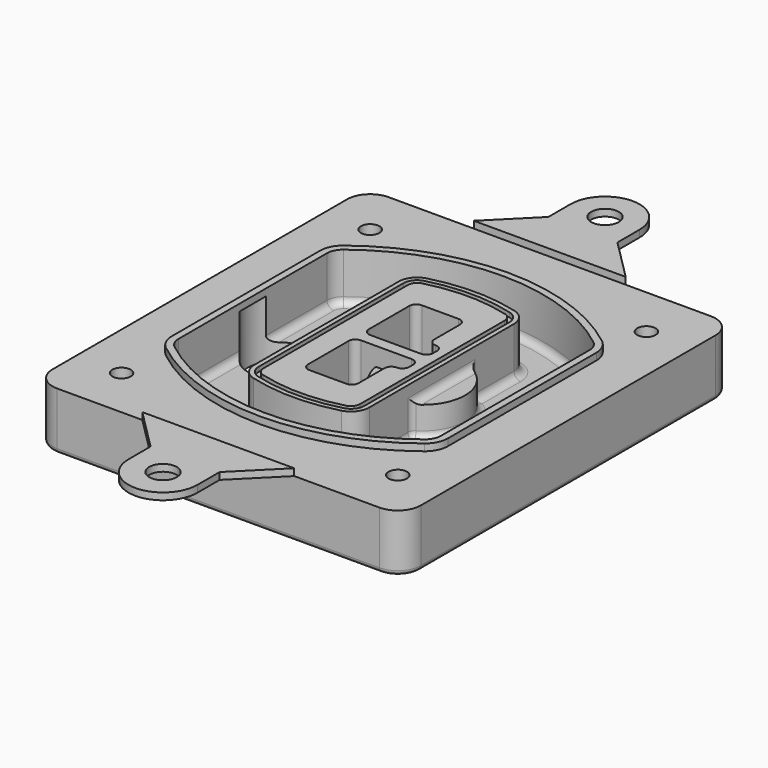
from build123d import *

# Parameters (mm, degrees)
F0_R      = 4
F1_DEPTH  = 25
F2_DEPTH  = 3
F3_DEPTH  = 18
F5_DEPTH  = 21
F6_DEPTH  = 2
F8_DEPTH  = 20
F9_DEPTH  = 16
F10_DEPTH = 25
F7_R      = 6
F7_R_2    = 4
F11_DEPTH = 6
F13_DEPTH = 9
F14_R     = 3
F15_R     = 2
F16_R     = 6
F17_DEPTH = 3


with BuildPart() as f1:
    # F0 (on Top) → F1 (new body)
    with BuildSketch(Plane.XY):
        with BuildLine():
            ThreePointArc((-80, -80), (-77.0710678119, -87.0710678119), (-70, -90))
            Line((-70, -90), (70, -90))
            ThreePointArc((70, -90), (77.0710678119, -87.0710678119), (80, -80))
            Line((80, -80), (80, 80))
            ThreePointArc((80, 80), (77.0710678119, 87.0710678119), (70, 90))
            Line((70, 90), (-70, 90))
            ThreePointArc((-70, 90), (-77.0710678119, 87.0710678119), (-80, 80))
            Line((-80, 80), (-80, -80))
        make_face()
        with Locations((-60, -67.5)):
            Circle(F0_R, mode=Mode.SUBTRACT)
        with Locations((60, -67.5)):
            Circle(F0_R, mode=Mode.SUBTRACT)
        with Locations((-60, 67.5)):
            Circle(F0_R, mode=Mode.SUBTRACT)
        with BuildLine():
            ThreePointArc((-64, 40.2934422872), (-62.5820384798, 46.4328484224), (-58.6153846154, 51.3286200352))
            ThreePointArc((-58.6153846154, 51.3286200352), (0, 71.5), (58.6153846154, 51.3286200352))
            ThreePointArc((58.6153846154, 51.3286200352), (62.5820384798, 46.4328484224), (64, 40.2934422872))
            Line((64, 40.2934422872), (64, -40.2934422872))
            ThreePointArc((64, -40.2934422872), (62.5820384798, -46.4328484224), (58.6153846154, -51.3286200352))
            ThreePointArc((58.6153846154, -51.3286200352), (0, -71.5), (-58.6153846154, -51.3286200352))
            ThreePointArc((-58.6153846154, -51.3286200352), (-62.5820384798, -46.4328484224), (-64, -40.2934422872))
            Line((-64, -40.2934422872), (-64, 40.2934422872))
        make_face(mode=Mode.SUBTRACT)
        with Locations((60, 67.5)):
            Circle(F0_R, mode=Mode.SUBTRACT)
        with BuildLine():
            ThreePointArc((58.6153846154, 51.3286200352), (0, 71.5), (-58.6153846154, 51.3286200352))
            ThreePointArc((-58.6153846154, 51.3286200352), (-62.5820384798, 46.4328484224), (-64, 40.2934422872))
            Line((-64, 40.2934422872), (-64, -40.2934422872))
            ThreePointArc((-64, -40.2934422872), (-62.5820384798, -46.4328484224), (-58.6153846154, -51.3286200352))
            ThreePointArc((-58.6153846154, -51.3286200352), (0, -71.5), (58.6153846154, -51.3286200352))
            ThreePointArc((58.6153846154, -51.3286200352), (62.5820384798, -46.4328484224), (64, -40.2934422872))
            Line((64, -40.2934422872), (64, 40.2934422872))
            ThreePointArc((64, 40.2934422872), (62.5820384798, 46.4328484224), (58.6153846154, 51.3286200352))
        make_face()
        with BuildLine():
            Line((-60, -40.2934422872), (-60, 40.2934422872))
            ThreePointArc((-60, 40.2934422872), (-58.9871703427, 44.6787323838), (-56.1538461538, 48.1757121072))
            ThreePointArc((-56.1538461538, 48.1757121072), (0, 67.5), (56.1538461538, 48.1757121072))
            ThreePointArc((56.1538461538, 48.1757121072), (58.9871703427, 44.6787323838), (60, 40.2934422872))
            Line((60, 40.2934422872), (60, -40.2934422872))
            ThreePointArc((60, -40.2934422872), (58.9871703427, -44.6787323838), (56.1538461538, -48.1757121072))
            ThreePointArc((56.1538461538, -48.1757121072), (0, -67.5), (-56.1538461538, -48.1757121072))
            ThreePointArc((-56.1538461538, -48.1757121072), (-58.9871703427, -44.6787323838), (-60, -40.2934422872))
        make_face(mode=Mode.SUBTRACT)
        with BuildLine():
            ThreePointArc((-56.1538461538, 48.1757121072), (-58.9871703427, 44.6787323838), (-60, 40.2934422872))
            Line((-60, 40.2934422872), (-60, -40.2934422872))
            ThreePointArc((-60, -40.2934422872), (-58.9871703427, -44.6787323838), (-56.1538461538, -48.1757121072))
            ThreePointArc((-56.1538461538, -48.1757121072), (0, -67.5), (56.1538461538, -48.1757121072))
            ThreePointArc((56.1538461538, -48.1757121072), (58.9871703427, -44.6787323838), (60, -40.2934422872))
            Line((60, -40.2934422872), (60, 40.2934422872))
            ThreePointArc((60, 40.2934422872), (58.9871703427, 44.6787323838), (56.1538461538, 48.1757121072))
            ThreePointArc((56.1538461538, 48.1757121072), (0, 67.5), (-56.1538461538, 48.1757121072))
        make_face()
        with BuildLine():
            ThreePointArc((54.3076923077, 45.8110311612), (56.2910192399, 43.3631453548), (57, 40.2934422872))
            Line((57, 40.2934422872), (57, -40.2934422872))
            ThreePointArc((57, -40.2934422872), (56.2910192399, -43.3631453548), (54.3076923077, -45.8110311612))
            ThreePointArc((54.3076923077, -45.8110311612), (0, -64.5), (-54.3076923077, -45.8110311612))
            ThreePointArc((-54.3076923077, -45.8110311612), (-56.2910192399, -43.3631453548), (-57, -40.2934422872))
            Line((-57, -40.2934422872), (-57, 40.2934422872))
            ThreePointArc((-57, 40.2934422872), (-56.2910192399, 43.3631453548), (-54.3076923077, 45.8110311612))
            ThreePointArc((-54.3076923077, 45.8110311612), (0, 64.5), (54.3076923077, 45.8110311612))
        make_face(mode=Mode.SUBTRACT)
        with BuildLine():
            Line((57, -40.2934422872), (57, 40.2934422872))
            ThreePointArc((57, 40.2934422872), (56.2910192399, 43.3631453548), (54.3076923077, 45.8110311612))
            ThreePointArc((54.3076923077, 45.8110311612), (0, 64.5), (-54.3076923077, 45.8110311612))
            ThreePointArc((-54.3076923077, 45.8110311612), (-56.2910192399, 43.3631453548), (-57, 40.2934422872))
            Line((-57, 40.2934422872), (-57, -40.2934422872))
            ThreePointArc((-57, -40.2934422872), (-56.2910192399, -43.3631453548), (-54.3076923077, -45.8110311612))
            ThreePointArc((-54.3076923077, -45.8110311612), (0, -64.5), (54.3076923077, -45.8110311612))
            ThreePointArc((54.3076923077, -45.8110311612), (56.2910192399, -43.3631453548), (57, -40.2934422872))
        make_face()
    extrude(amount=-F1_DEPTH)

    # F0 (on Top) → F2 (join)
    with BuildSketch(Plane.XY):
        with BuildLine():
            ThreePointArc((-56.1538461538, 48.1757121072), (-58.9871703427, 44.6787323838), (-60, 40.2934422872))
            Line((-60, 40.2934422872), (-60, -40.2934422872))
            ThreePointArc((-60, -40.2934422872), (-58.9871703427, -44.6787323838), (-56.1538461538, -48.1757121072))
            ThreePointArc((-56.1538461538, -48.1757121072), (0, -67.5), (56.1538461538, -48.1757121072))
            ThreePointArc((56.1538461538, -48.1757121072), (58.9871703427, -44.6787323838), (60, -40.2934422872))
            Line((60, -40.2934422872), (60, 40.2934422872))
            ThreePointArc((60, 40.2934422872), (58.9871703427, 44.6787323838), (56.1538461538, 48.1757121072))
            ThreePointArc((56.1538461538, 48.1757121072), (0, 67.5), (-56.1538461538, 48.1757121072))
        make_face()
        with BuildLine():
            ThreePointArc((54.3076923077, 45.8110311612), (56.2910192399, 43.3631453548), (57, 40.2934422872))
            Line((57, 40.2934422872), (57, -40.2934422872))
            ThreePointArc((57, -40.2934422872), (56.2910192399, -43.3631453548), (54.3076923077, -45.8110311612))
            ThreePointArc((54.3076923077, -45.8110311612), (0, -64.5), (-54.3076923077, -45.8110311612))
            ThreePointArc((-54.3076923077, -45.8110311612), (-56.2910192399, -43.3631453548), (-57, -40.2934422872))
            Line((-57, -40.2934422872), (-57, 40.2934422872))
            ThreePointArc((-57, 40.2934422872), (-56.2910192399, 43.3631453548), (-54.3076923077, 45.8110311612))
            ThreePointArc((-54.3076923077, 45.8110311612), (0, 64.5), (54.3076923077, 45.8110311612))
        make_face(mode=Mode.SUBTRACT)
    extrude(amount=F2_DEPTH)

    # F0 (on Top) → F3 (cut)
    with BuildSketch(Plane.XY):
        with BuildLine():
            Line((57, -40.2934422872), (57, 40.2934422872))
            ThreePointArc((57, 40.2934422872), (56.2910192399, 43.3631453548), (54.3076923077, 45.8110311612))
            ThreePointArc((54.3076923077, 45.8110311612), (0, 64.5), (-54.3076923077, 45.8110311612))
            ThreePointArc((-54.3076923077, 45.8110311612), (-56.2910192399, 43.3631453548), (-57, 40.2934422872))
            Line((-57, 40.2934422872), (-57, -40.2934422872))
            ThreePointArc((-57, -40.2934422872), (-56.2910192399, -43.3631453548), (-54.3076923077, -45.8110311612))
            ThreePointArc((-54.3076923077, -45.8110311612), (0, -64.5), (54.3076923077, -45.8110311612))
            ThreePointArc((54.3076923077, -45.8110311612), (56.2910192399, -43.3631453548), (57, -40.2934422872))
        make_face()
    extrude(amount=-F3_DEPTH, mode=Mode.SUBTRACT)

    # F4 (on face) → F5 (join, through all)
    with BuildSketch(Plane.XY.offset(3)):
        with BuildLine():
            ThreePointArc((-25, -39.2465276821), (-23.3511545998, -44.1109737193), (-19.0842911877, -46.9702398883))
            ThreePointArc((-19.0842911877, -46.9702398883), (0, -49.5), (19.0842911877, -46.9702398883))
            ThreePointArc((19.0842911877, -46.9702398883), (23.3511545998, -44.1109737193), (25, -39.2465276821))
            Line((25, -39.2465276821), (25, 39.2465276821))
            ThreePointArc((25, 39.2465276821), (23.3511545998, 44.1109737193), (19.0842911877, 46.9702398883))
            ThreePointArc((19.0842911877, 46.9702398883), (0, 49.5), (-19.0842911877, 46.9702398883))
            ThreePointArc((-19.0842911877, 46.9702398883), (-23.3511545998, 44.1109737193), (-25, 39.2465276821))
            Line((-25, 39.2465276821), (-25, -39.2465276821))
        make_face()
        with BuildLine():
            ThreePointArc((18.5632183908, 45.0393118368), (21.7633659499, 42.89486221), (23, 39.2465276821))
            Line((23, 39.2465276821), (23, -39.2465276821))
            ThreePointArc((23, -39.2465276821), (21.7633659499, -42.89486221), (18.5632183908, -45.0393118368))
            ThreePointArc((18.5632183908, -45.0393118368), (0, -47.5), (-18.5632183908, -45.0393118368))
            ThreePointArc((-18.5632183908, -45.0393118368), (-21.7633659499, -42.89486221), (-23, -39.2465276821))
            Line((-23, -39.2465276821), (-23, 39.2465276821))
            ThreePointArc((-23, 39.2465276821), (-21.7633659499, 42.89486221), (-18.5632183908, 45.0393118368))
            ThreePointArc((-18.5632183908, 45.0393118368), (0, 47.5), (18.5632183908, 45.0393118368))
        make_face(mode=Mode.SUBTRACT)
        with BuildLine():
            Line((23, -39.2465276821), (23, 39.2465276821))
            ThreePointArc((23, 39.2465276821), (21.7633659499, 42.89486221), (18.5632183908, 45.0393118368))
            ThreePointArc((18.5632183908, 45.0393118368), (0, 47.5), (-18.5632183908, 45.0393118368))
            ThreePointArc((-18.5632183908, 45.0393118368), (-21.7633659499, 42.89486221), (-23, 39.2465276821))
            Line((-23, 39.2465276821), (-23, -39.2465276821))
            ThreePointArc((-23, -39.2465276821), (-21.7633659499, -42.89486221), (-18.5632183908, -45.0393118368))
            ThreePointArc((-18.5632183908, -45.0393118368), (0, -47.5), (18.5632183908, -45.0393118368))
            ThreePointArc((18.5632183908, -45.0393118368), (21.7633659499, -42.89486221), (23, -39.2465276821))
        make_face()
        with BuildLine():
            ThreePointArc((18.0421455939, 43.1083837852), (20.1755772999, 41.6787507007), (21, 39.2465276821))
            Line((21, 39.2465276821), (21, -39.2465276821))
            ThreePointArc((21, -39.2465276821), (20.1755772999, -41.6787507007), (18.0421455939, -43.1083837852))
            ThreePointArc((18.0421455939, -43.1083837852), (0, -45.5), (-18.0421455939, -43.1083837852))
            ThreePointArc((-18.0421455939, -43.1083837852), (-20.1755772999, -41.6787507007), (-21, -39.2465276821))
            Line((-21, -39.2465276821), (-21, 39.2465276821))
            ThreePointArc((-21, 39.2465276821), (-20.1755772999, 41.6787507007), (-18.0421455939, 43.1083837852))
            ThreePointArc((-18.0421455939, 43.1083837852), (0, 45.5), (18.0421455939, 43.1083837852))
        make_face(mode=Mode.SUBTRACT)
        with BuildLine():
            Line((21, -39.2465276821), (21, 39.2465276821))
            ThreePointArc((21, 39.2465276821), (20.1755772999, 41.6787507007), (18.0421455939, 43.1083837852))
            ThreePointArc((18.0421455939, 43.1083837852), (0, 45.5), (-18.0421455939, 43.1083837852))
            ThreePointArc((-18.0421455939, 43.1083837852), (-20.1755772999, 41.6787507007), (-21, 39.2465276821))
            Line((-21, 39.2465276821), (-21, -39.2465276821))
            ThreePointArc((-21, -39.2465276821), (-20.1755772999, -41.6787507007), (-18.0421455939, -43.1083837852))
            ThreePointArc((-18.0421455939, -43.1083837852), (0, -45.5), (18.0421455939, -43.1083837852))
            ThreePointArc((18.0421455939, -43.1083837852), (20.1755772999, -41.6787507007), (21, -39.2465276821))
        make_face()
        with BuildLine():
            Line((-8, -2.5), (14, -2.5))
            ThreePointArc((14, -2.5), (16.1213203436, -3.3786796564), (17, -5.5))
            Line((17, -5.5), (17, -7.5))
            ThreePointArc((17, -7.5), (16.1213203436, -9.6213203436), (14, -10.5))
            ThreePointArc((14, -10.5), (11.8786796564, -11.3786796564), (11, -13.5))
            Line((11, -13.5), (11, -27.5))
            ThreePointArc((11, -27.5), (10.1213203436, -29.6213203436), (8, -30.5))
            Line((8, -30.5), (-8, -30.5))
            ThreePointArc((-8, -30.5), (-10.1213203436, -29.6213203436), (-11, -27.5))
            Line((-11, -27.5), (-11, -5.5))
            ThreePointArc((-11, -5.5), (-10.1213203436, -3.3786796564), (-8, -2.5))
        make_face(mode=Mode.SUBTRACT)
        with BuildLine():
            ThreePointArc((-8, 2.5), (-10.1213203436, 3.3786796564), (-11, 5.5))
            Line((-11, 5.5), (-11, 27.5))
            ThreePointArc((-11, 27.5), (-10.1213203436, 29.6213203436), (-8, 30.5))
            Line((-8, 30.5), (8, 30.5))
            ThreePointArc((8, 30.5), (10.1213203436, 29.6213203436), (11, 27.5))
            Line((11, 27.5), (11, 13.5))
            ThreePointArc((11, 13.5), (11.8786796564, 11.3786796564), (14, 10.5))
            ThreePointArc((14, 10.5), (16.1213203436, 9.6213203436), (17, 7.5))
            Line((17, 7.5), (17, 5.5))
            ThreePointArc((17, 5.5), (16.1213203436, 3.3786796564), (14, 2.5))
            Line((14, 2.5), (-8, 2.5))
        make_face(mode=Mode.SUBTRACT)
    extrude(amount=-F5_DEPTH)

    # F4 (on face) → F6 (cut)
    with BuildSketch(Plane.XY.offset(3)):
        with BuildLine():
            Line((23, -39.2465276821), (23, 39.2465276821))
            ThreePointArc((23, 39.2465276821), (21.7633659499, 42.89486221), (18.5632183908, 45.0393118368))
            ThreePointArc((18.5632183908, 45.0393118368), (0, 47.5), (-18.5632183908, 45.0393118368))
            ThreePointArc((-18.5632183908, 45.0393118368), (-21.7633659499, 42.89486221), (-23, 39.2465276821))
            Line((-23, 39.2465276821), (-23, -39.2465276821))
            ThreePointArc((-23, -39.2465276821), (-21.7633659499, -42.89486221), (-18.5632183908, -45.0393118368))
            ThreePointArc((-18.5632183908, -45.0393118368), (0, -47.5), (18.5632183908, -45.0393118368))
            ThreePointArc((18.5632183908, -45.0393118368), (21.7633659499, -42.89486221), (23, -39.2465276821))
        make_face()
        with BuildLine():
            ThreePointArc((18.0421455939, 43.1083837852), (20.1755772999, 41.6787507007), (21, 39.2465276821))
            Line((21, 39.2465276821), (21, -39.2465276821))
            ThreePointArc((21, -39.2465276821), (20.1755772999, -41.6787507007), (18.0421455939, -43.1083837852))
            ThreePointArc((18.0421455939, -43.1083837852), (0, -45.5), (-18.0421455939, -43.1083837852))
            ThreePointArc((-18.0421455939, -43.1083837852), (-20.1755772999, -41.6787507007), (-21, -39.2465276821))
            Line((-21, -39.2465276821), (-21, 39.2465276821))
            ThreePointArc((-21, 39.2465276821), (-20.1755772999, 41.6787507007), (-18.0421455939, 43.1083837852))
            ThreePointArc((-18.0421455939, 43.1083837852), (0, 45.5), (18.0421455939, 43.1083837852))
        make_face(mode=Mode.SUBTRACT)
    extrude(amount=-F6_DEPTH, mode=Mode.SUBTRACT)

    # F7 (on face) → F8 (join)
    with BuildSketch(Plane(origin=(0, 0, -25), x_dir=(1, 0, 0), z_dir=(0, 0, -1))):
        with BuildLine():
            ThreePointArc((3.28842436, 0), (16.7567035675, 13.4682792075), (30.224982775, 0))
            Line((30.224982775, 0), (35.224982775, 0))
            ThreePointArc((35.224982775, 0), (16.7567035675, 18.4682792075), (-1.71157564, 0))
            Line((-1.71157564, 0), (3.28842436, 0))
        make_face()
        with BuildLine():
            Line((3.28842436, 0), (30.224982775, 0))
            ThreePointArc((30.224982775, 0), (16.7567035675, 13.4682792075), (3.28842436, 0))
        make_face()
        with BuildLine():
            ThreePointArc((3.28842436, 0), (16.7567035675, -13.4682792075), (30.224982775, 0))
            Line((30.224982775, 0), (3.28842436, 0))
        make_face()
        with BuildLine():
            Line((35.224982775, 0), (30.224982775, 0))
            ThreePointArc((30.224982775, 0), (16.7567035675, -13.4682792075), (3.28842436, 0))
            Line((3.28842436, 0), (-1.71157564, 0))
            ThreePointArc((-1.71157564, 0), (16.7567035675, -18.4682792075), (35.224982775, 0))
        make_face()
    extrude(amount=-F8_DEPTH)

    # F7 (on face) → F9 (cut)
    with BuildSketch(Plane(origin=(0, 0, -25), x_dir=(1, 0, 0), z_dir=(0, 0, -1))):
        with BuildLine():
            Line((3.28842436, 0), (30.224982775, 0))
            ThreePointArc((30.224982775, 0), (16.7567035675, 13.4682792075), (3.28842436, 0))
        make_face()
        with BuildLine():
            ThreePointArc((3.28842436, 0), (16.7567035675, -13.4682792075), (30.224982775, 0))
            Line((30.224982775, 0), (3.28842436, 0))
        make_face()
    extrude(amount=-F9_DEPTH, mode=Mode.SUBTRACT)

    # F7 (on face) → F10 (cut)
    with BuildSketch(Plane(origin=(0, 0, -25), x_dir=(1, 0, 0), z_dir=(0, 0, -1))):
        with BuildLine():
            Line((-59.0318229325, 0), (-32.0952645175, 0))
            ThreePointArc((-32.0952645175, 0), (-45.563543725, 13.4682792075), (-59.0318229325, 0))
        make_face()
        with BuildLine():
            ThreePointArc((-59.0318229325, 0), (-45.563543725, -13.4682792075), (-32.0952645175, 0))
            Line((-32.0952645175, 0), (-59.0318229325, 0))
        make_face()
    extrude(amount=-F10_DEPTH, mode=Mode.SUBTRACT)

    # F7 (on face) → F11 (cut)
    with BuildSketch(Plane(origin=(0, 0, -25), x_dir=(1, 0, 0), z_dir=(0, 0, -1))):
        with Locations((60, -67.5)):
            Circle(F7_R)
        with Locations((60, -67.5)):
            Circle(F7_R_2, mode=Mode.SUBTRACT)
        with Locations((60, -67.5)):
            Circle(F7_R)
        with Locations((60, -67.5)):
            Circle(F7_R_2, mode=Mode.SUBTRACT)
        with Locations((-60, -67.5)):
            Circle(F7_R)
        with Locations((-60, -67.5)):
            Circle(F7_R_2, mode=Mode.SUBTRACT)
        with Locations((-60, -67.5)):
            Circle(F7_R)
        with Locations((-60, -67.5)):
            Circle(F7_R_2, mode=Mode.SUBTRACT)
        with Locations((-60, 67.5)):
            Circle(F7_R)
        with Locations((-60, 67.5)):
            Circle(F7_R_2, mode=Mode.SUBTRACT)
        with Locations((-60, 67.5)):
            Circle(F7_R)
        with Locations((-60, 67.5)):
            Circle(F7_R_2, mode=Mode.SUBTRACT)
        with Locations((60, 67.5)):
            Circle(F7_R)
        with Locations((60, 67.5)):
            Circle(F7_R_2, mode=Mode.SUBTRACT)
        with Locations((60, 67.5)):
            Circle(F7_R)
        with Locations((60, 67.5)):
            Circle(F7_R_2, mode=Mode.SUBTRACT)
    extrude(amount=-F11_DEPTH, mode=Mode.SUBTRACT)

    # F12 (on face) → F13 (cut, through all)
    with BuildSketch(Plane(origin=(0, 0, -9), x_dir=(1, 0, 0), z_dir=(0, 0, -1))):
        with BuildLine():
            Line((11, 13.5), (11, 17.5481537753))
            ThreePointArc((11, 17.5481537753), (2.5696536419, 11.8239143813), (-1.5415842455, 2.5))
            Line((-1.5415842455, 2.5), (3.5224848595, 2.5))
            ThreePointArc((3.5224848595, 2.5), (6.1857188154, 8.3455872281), (11.2536447004, 12.2927168648))
            ThreePointArc((11.2536447004, 12.2927168648), (11.0640958889, 12.8831798879), (11, 13.5))
        make_face()
        with BuildLine():
            ThreePointArc((11.2536447004, -12.2927168648), (6.1857188154, -8.3455872281), (3.5224848595, -2.5))
            Line((3.5224848595, -2.5), (-1.5415842455, -2.5))
            ThreePointArc((-1.5415842455, -2.5), (2.5696536419, -11.8239143813), (11, -17.5481537753))
            Line((11, -17.5481537753), (11, -13.5))
            ThreePointArc((11, -13.5), (11.0640958889, -12.8831798879), (11.2536447004, -12.2927168648))
        make_face()
        with BuildLine():
            ThreePointArc((11.2536447004, 12.2927168648), (6.1857188154, 8.3455872281), (3.5224848595, 2.5))
            Line((3.5224848595, 2.5), (14, 2.5))
            ThreePointArc((14, 2.5), (16.1213203436, 3.3786796564), (17, 5.5))
            Line((17, 5.5), (17, 7.5))
            ThreePointArc((17, 7.5), (16.1213203436, 9.6213203436), (14, 10.5))
            ThreePointArc((14, 10.5), (12.3601599782, 10.9878446101), (11.2536447004, 12.2927168648))
        make_face()
        with BuildLine():
            Line((14, -2.5), (3.5224848595, -2.5))
            ThreePointArc((3.5224848595, -2.5), (6.1857188154, -8.3455872281), (11.2536447004, -12.2927168648))
            ThreePointArc((11.2536447004, -12.2927168648), (12.3601599782, -10.9878446101), (14, -10.5))
            ThreePointArc((14, -10.5), (16.1213203436, -9.6213203436), (17, -7.5))
            Line((17, -7.5), (17, -5.5))
            ThreePointArc((17, -5.5), (16.1213203436, -3.3786796564), (14, -2.5))
        make_face()
    extrude(amount=F13_DEPTH, mode=Mode.SUBTRACT)

    # F14
    f14_edges = [f1.edges().sort_by_distance(p)[0] for p in [
        (-57, -23.703476, -18),
        (-57, 23.703476, -18),
        (25, 0, -5),
        (25, 16.526506, -11.5),
        (25, -16.526506, -11.5),
        (25, -27.886517, -18),
        (35.224983, 0, -18),
    ]]
    fillet(f14_edges, radius=F14_R)

    # F15
    f15_edges = [f1.edges().sort_by_distance(p)[0] for p in [
        (0, -90, -25),
    ]]
    fillet(f15_edges, radius=F15_R)


with BuildPart() as f17:
    # F16 (on face) → F17 (new body, through all)
    with BuildSketch(Plane.XY):
        with BuildLine():
            Line((15, 108), (15, 120))
            ThreePointArc((15, 120), (0, 135), (-15, 120))
            Line((-15, 120), (-15, 108))
            Line((-15, 108), (-33, 90))
            Line((-33, 90), (33, 90))
            Line((33, 90), (15, 108))
        make_face()
        with Locations((0, 120)):
            Circle(F16_R, mode=Mode.SUBTRACT)
    extrude(amount=F17_DEPTH)


with BuildPart() as f17b:
    # F16 (on face) → F17, piece 2 (new body, through all)
    with BuildSketch(Plane.XY):
        with BuildLine():
            Line((15, -108), (33, -90))
            Line((33, -90), (-33, -90))
            Line((-33, -90), (-15, -108))
            Line((-15, -108), (-15, -120))
            ThreePointArc((-15, -120), (0, -135), (15, -120))
            Line((15, -120), (15, -108))
        make_face()
        with Locations((0, -120)):
            Circle(F16_R, mode=Mode.SUBTRACT)
    extrude(amount=F17_DEPTH)


solid = Compound([f1.part, f17.part, f17b.part])
